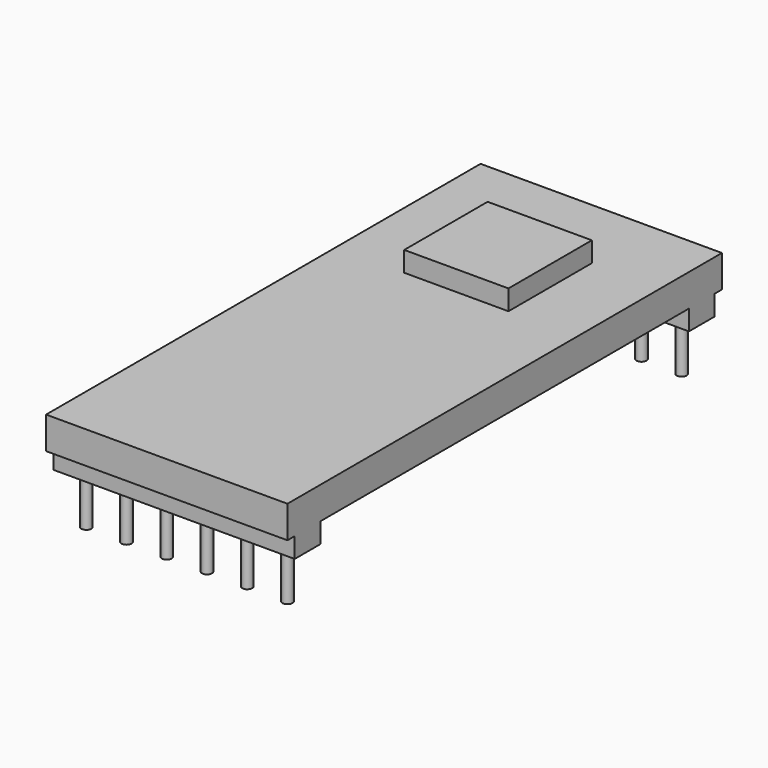
from build123d import *

# Parameters (mm, degrees)
F0_W     = 12
F0_H     = 27
F1_DEPTH = 1.6
F2_W     = 12
F2_H     = 1.6
F3_DEPTH = 1
F4_R     = 0.25
F5_DEPTH = 2.5
F6_W     = 5.18181
F6_H     = 5.181811
F7_DEPTH = 1


with BuildPart() as f1:
    # F0 (on Top) → F1 (new body)
    with BuildSketch(Plane.XY):
        Rectangle(F0_W, F0_H)
    extrude(amount=F1_DEPTH)

    # F2 (on face) → F3 (join)
    with BuildSketch(Plane(origin=(0, 0, 0), x_dir=(1, 0, 0), z_dir=(0, 0, -1))):
        with Locations((0, -12.25)):
            Rectangle(F2_W, F2_H)
        with Locations((0, 12.25)):
            Rectangle(F2_W, F2_H)
    extrude(amount=F3_DEPTH)

    # F4 (on face) → F5 (join)
    with BuildSketch(Plane(origin=(0, 0, -1), x_dir=(1, 0, 0), z_dir=(0, 0, -1))):
        with Locations((-5, -12.25)):
            Circle(F4_R)
        with Locations((-5, 12.25)):
            Circle(F4_R)
        with Locations((-3, -12.25)):
            Circle(F4_R)
        with Locations((-3, 12.25)):
            Circle(F4_R)
        with Locations((-1, -12.25)):
            Circle(F4_R)
        with Locations((-1, 12.25)):
            Circle(F4_R)
        with Locations((1, -12.25)):
            Circle(F4_R)
        with Locations((1, 12.25)):
            Circle(F4_R)
        with Locations((3, -12.25)):
            Circle(F4_R)
        with Locations((3, 12.25)):
            Circle(F4_R)
        with Locations((5, -12.25)):
            Circle(F4_R)
        with Locations((5, 12.25)):
            Circle(F4_R)
    extrude(amount=F5_DEPTH)

    # F6 (on face) → F7 (join)
    with BuildSketch(Plane.XY.offset(1.6)):
        with Locations((0, 7.086888)):
            Rectangle(F6_W, F6_H)
    extrude(amount=F7_DEPTH)


solid = f1.part
